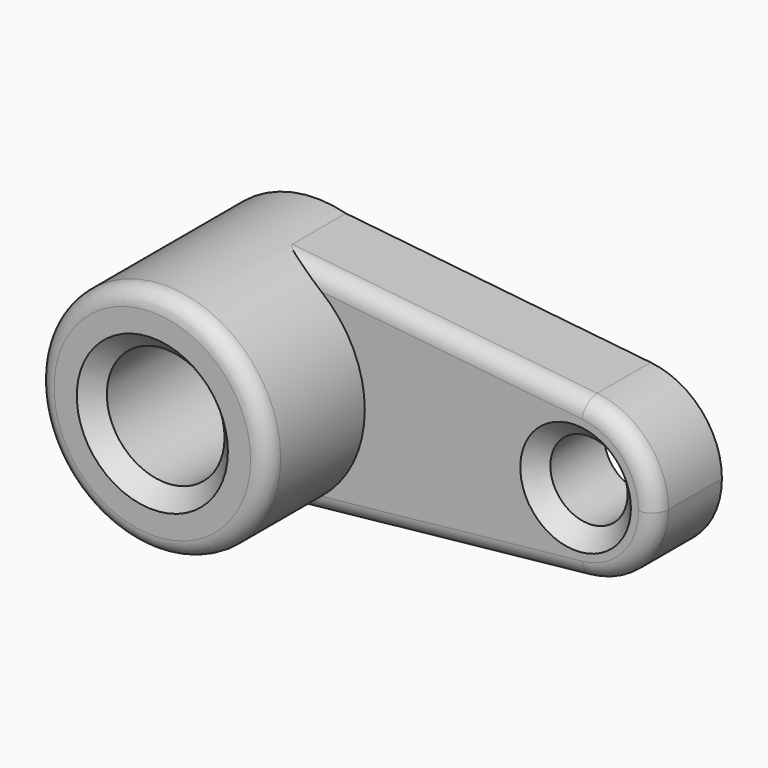
from build123d import *

# Parameters (mm, degrees)
F0_R     = 17.918738
F0_R_2   = 11.561225
F1_DEPTH = 25
F2_R     = 34.424869
F2_R_2   = 17.626187
F3_DEPTH = 61.5
F4_R     = 5
F5_SIZE  = 5
F6_SIZE  = 5
F7_R     = 5


with BuildPart() as f1:
    # F0 (on Front) → F1 (new body)
    with BuildSketch(Plane.XZ):
        with BuildLine():
            ThreePointArc((4.55913, -33.762444), (25.651635, -22.42057), (34.068876, 0))
            ThreePointArc((34.068876, 0), (25.85659, 22.183893), (5.178866, 33.672952))
            ThreePointArc((5.178866, 33.672952), (-34.067438, 0.313082), (4.55913, -33.762444))
        make_face()
        Circle(F0_R, mode=Mode.SUBTRACT)
        with BuildLine():
            ThreePointArc((5.178866, 33.672952), (25.85659, 22.183893), (34.068876, 0))
            ThreePointArc((34.068876, 0), (25.651635, -22.42057), (4.55913, -33.762444))
            Line((4.55913, -33.762444), (100.055945, -23.687435))
            ThreePointArc((100.055945, -23.687435), (73.738, -0.002993), (100.049991, 23.688063))
            Line((100.049991, 23.688063), (5.178866, 33.672952))
        make_face()
        with BuildLine():
            ThreePointArc((121.375793, 0), (115.25891, 15.936704), (100.049991, 23.688063))
            ThreePointArc((100.049991, 23.688063), (73.738, -0.002993), (100.055945, -23.687435))
            ThreePointArc((100.055945, -23.687435), (115.260913, -15.934479), (121.375793, 0))
        make_face()
        with Locations((97.556897, 0)):
            Circle(F0_R_2, mode=Mode.SUBTRACT)
    extrude(amount=F1_DEPTH)

    # F2 (on Front) → F3 (join)
    with BuildSketch(Plane.XZ):
        Circle(F2_R)
        Circle(F2_R_2, mode=Mode.SUBTRACT)
    extrude(amount=F3_DEPTH)

    # F4
    f4_edges = [f1.edges().sort_by_distance(p)[0] for p in [
        (-34.424869, -61.5, 0),
    ]]
    fillet(f4_edges, radius=F4_R)

    # F5
    f5_edges = [f1.edges().sort_by_distance(p)[0] for p in [
        (-17.626187, -61.5, 0),
    ]]
    chamfer(f5_edges, length=F5_SIZE)

    # F6
    f6_edges = [f1.edges().sort_by_distance(p)[0] for p in [
        (85.995671, -25, 0),
    ]]
    chamfer(f6_edges, length=F6_SIZE)

    # F7
    f7_edges = [f1.edges().sort_by_distance(p)[0] for p in [
        (54.318812, -25, -28.512748),
    ]]
    fillet(f7_edges, radius=F7_R)


solid = f1.part
